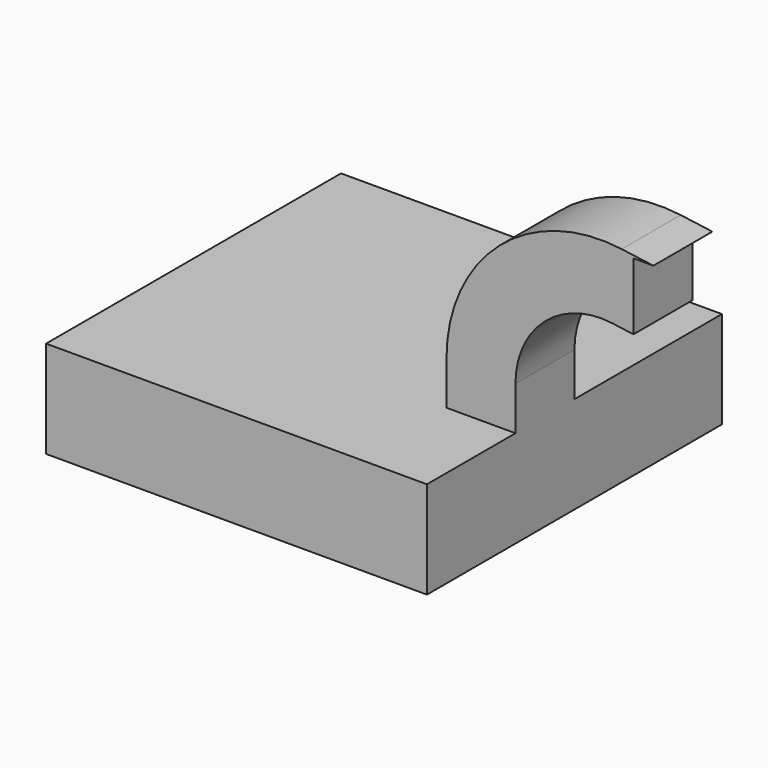
from build123d import *

# Parameters (mm, degrees)
F1_DEPTH = 63.5
F2_DEPTH = 25.4


with BuildPart() as f1:
    # F0 (on Front) → F1 (new body, symmetric)
    with BuildSketch(Plane.XZ):
        Polygon((65.602288, -16.733009), (65.602288, 16.733009), (41.847356, 16.733009), (-65.602288, 16.733009), (-65.602288, -16.733009), align=None)
    extrude(amount=F1_DEPTH, both=True)

    # F0 (on Front) → F2 (join)
    with BuildSketch(Plane.XZ):
        with BuildLine():
            Line((41.847356, 16.733009), (65.602288, 16.733009))
            Line((65.602288, 16.733009), (65.602288, 31.725151))
            ThreePointArc((65.602288, 31.725151), (75.681663, 53.916889), (99.024929, 60.928233))
            Line((99.024929, 60.928233), (106.255405, 59.949448))
            Line((106.255405, 59.949448), (106.255405, 82.992167))
            Line((106.255405, 82.992167), (113.11721, 82.992167))
            Line((113.11721, 82.992167), (102.211555, 84.468458))
            ThreePointArc((102.211555, 84.468458), (60.051584, 71.805361), (41.847356, 31.725151))
            Line((41.847356, 31.725151), (41.847356, 16.733009))
        make_face()
    extrude(amount=F2_DEPTH)


solid = f1.part
